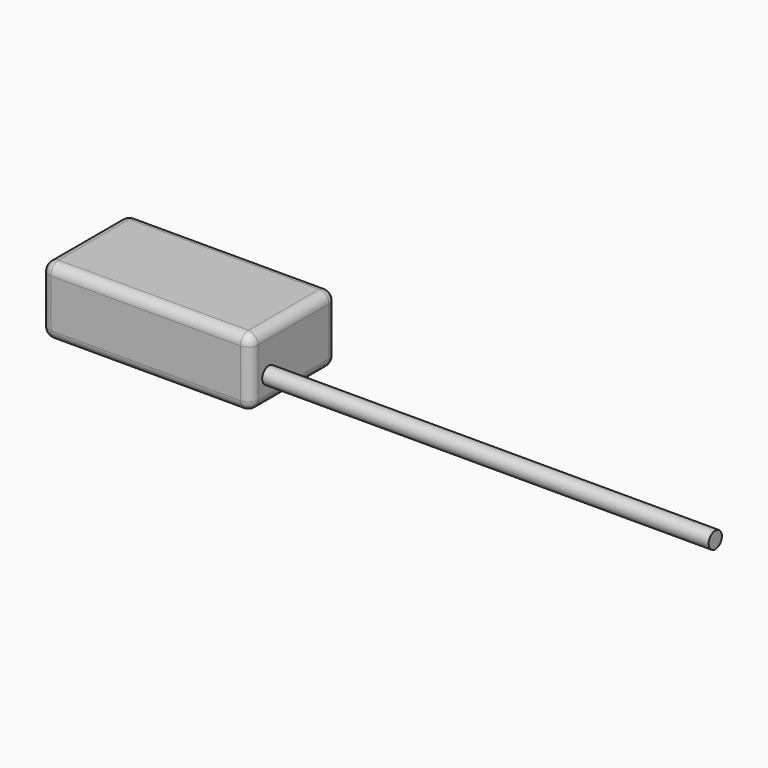
from build123d import *

# Parameters (mm, degrees)
F0_W     = 190.5
F0_H     = 98.298
F1_DEPTH = 61.722
F2_R     = 8.89
F3_R     = 7.542044
F4_DEPTH = 406.4


with BuildPart() as f1:
    # F0 (on Top) → F1 (new body)
    with BuildSketch(Plane.XY):
        Rectangle(F0_W, F0_H)
    extrude(amount=F1_DEPTH)

    # F2
    f2_edges = [f1.edges().sort_by_distance(p)[0] for p in [
        (-95.25, 0, 0),
        (0, -49.149, 0),
        (95.25, 0, 0),
        (0, 49.149, 0),
        (95.25, 49.149, 30.861),
        (-95.25, 49.149, 30.861),
        (0, 49.149, 61.722),
        (-95.25, -49.149, 30.861),
        (95.25, -49.149, 30.861),
        (0, -49.149, 61.722),
        (-95.25, 0, 61.722),
        (95.25, 0, 61.722),
    ]]
    fillet(f2_edges, radius=F2_R)

    # F3 (on face) → F4 (join)
    with BuildSketch(Plane.YZ.offset(95.25)):
        with Locations((-28.03967, 23.837732)):
            Circle(F3_R)
        with Locations((-28.03967, 23.837732)):
            Circle(F3_R)
    extrude(amount=F4_DEPTH)


solid = f1.part
